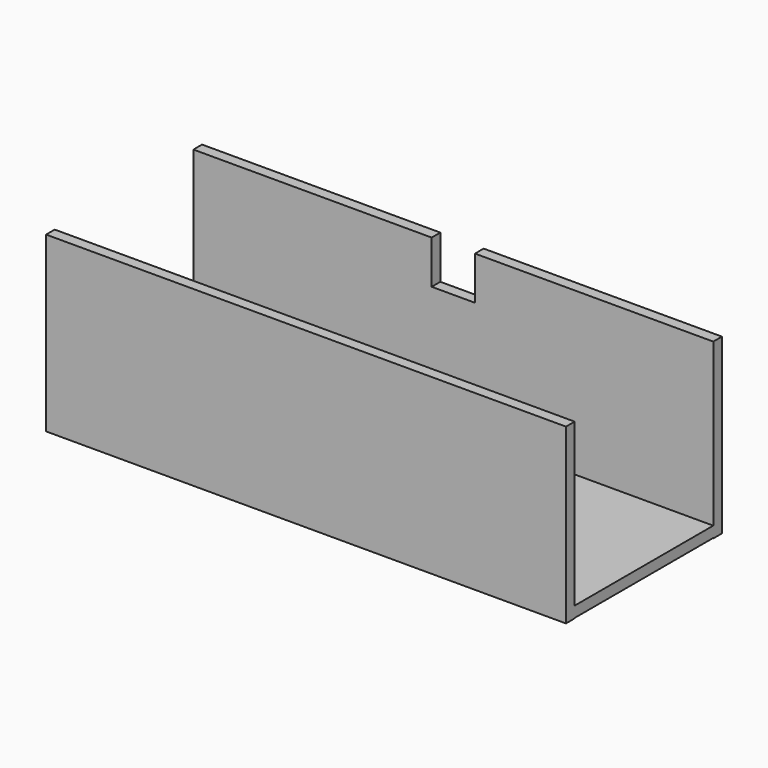
from build123d import *

# Parameters (mm, degrees)
F0_W     = 914.4
F0_H     = 19.05
F1_DEPTH = 304.8
F2_W     = 76.2
F2_H     = 76.2
F3_DEPTH = 19.05
F4_W     = 304.8
F4_H     = 19.05
F5_DEPTH = 304.8
F6_W     = 304.8
F6_H     = 19.05
F7_DEPTH = 304.8
F8_W     = 304.8
F8_H     = 19.05
F9_DEPTH = 19.05


with BuildPart() as f1:
    # F0 (on Top) → F1 (new body)
    with BuildSketch(Plane.XY):
        Rectangle(F0_W, F0_H)
    extrude(amount=F1_DEPTH)

    # F2 (on face) → F3 (cut)
    with BuildSketch(Plane.XZ.offset(9.525)):
        with Locations((0, 266.7)):
            Rectangle(F2_W, F2_H)
    extrude(amount=-F3_DEPTH, mode=Mode.SUBTRACT)

    # F4 (on face) → F5 (join)
    with BuildSketch(Plane.XZ.offset(9.525)):
        with Locations((-304.8, 10.287)):
            Rectangle(F4_W, F4_H)
    extrude(amount=F5_DEPTH)

    # F6 (on face) → F7 (join)
    with BuildSketch(Plane.XZ.offset(9.525)):
        with Locations((304.8, 10.287)):
            Rectangle(F6_W, F6_H)
    extrude(amount=F7_DEPTH)

    # F8 (on face) → F9 (join)
    with BuildSketch(Plane.XZ.offset(314.325)):
        Polygon((-152.4, 0.762), (-457.2, 0.762), (-457.2, 0), (457.2, 0), (457.2, 304.8), (-457.2, 304.8), (-457.2, 19.812), (-152.4, 19.812), align=None)
        with Locations((-304.8, 10.287)):
            Rectangle(F8_W, F8_H)
    extrude(amount=F9_DEPTH)


solid = f1.part
